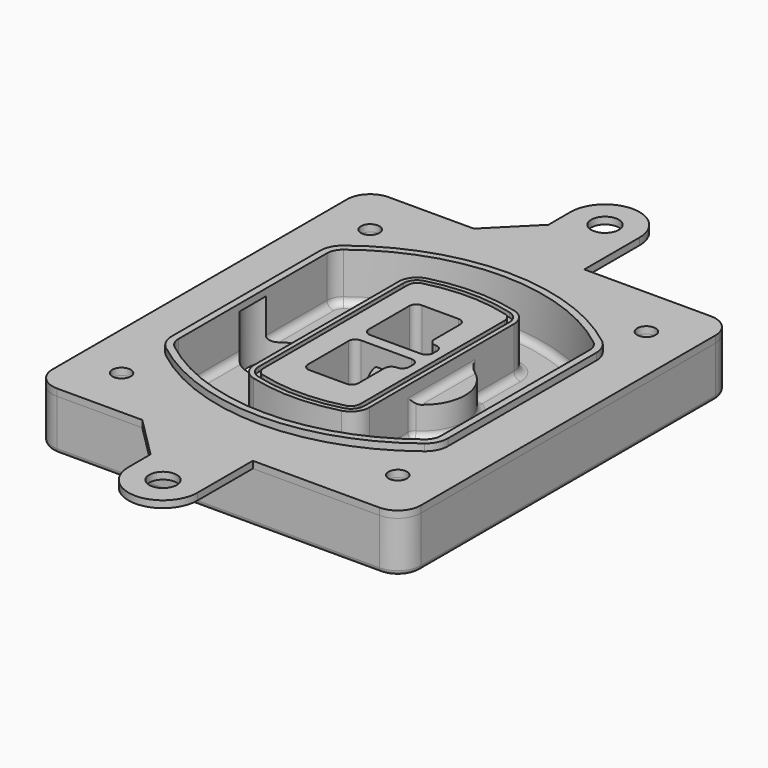
from build123d import *

# Parameters (mm, degrees)
F0_R      = 4
F1_DEPTH  = 25
F2_DEPTH  = 3
F3_DEPTH  = 18
F5_DEPTH  = 21
F6_DEPTH  = 2
F8_DEPTH  = 20
F9_DEPTH  = 16
F10_DEPTH = 25
F7_R      = 6
F7_R_2    = 4
F11_DEPTH = 6
F13_DEPTH = 9
F14_R     = 3
F15_R     = 2
F16_R     = 6
F16_R_2   = 4
F17_DEPTH = 3


with BuildPart() as f1:
    # F0 (on Top) → F1 (new body)
    with BuildSketch(Plane.XY):
        with BuildLine():
            ThreePointArc((-80, -80), (-77.0710678119, -87.0710678119), (-70, -90))
            Line((-70, -90), (70, -90))
            ThreePointArc((70, -90), (77.0710678119, -87.0710678119), (80, -80))
            Line((80, -80), (80, 80))
            ThreePointArc((80, 80), (77.0710678119, 87.0710678119), (70, 90))
            Line((70, 90), (-70, 90))
            ThreePointArc((-70, 90), (-77.0710678119, 87.0710678119), (-80, 80))
            Line((-80, 80), (-80, -80))
        make_face()
        with Locations((-60, -67.5)):
            Circle(F0_R, mode=Mode.SUBTRACT)
        with Locations((60, -67.5)):
            Circle(F0_R, mode=Mode.SUBTRACT)
        with Locations((-60, 67.5)):
            Circle(F0_R, mode=Mode.SUBTRACT)
        with BuildLine():
            ThreePointArc((-64, 40.2934422872), (-62.5820384798, 46.4328484224), (-58.6153846154, 51.3286200352))
            ThreePointArc((-58.6153846154, 51.3286200352), (0, 71.5), (58.6153846154, 51.3286200352))
            ThreePointArc((58.6153846154, 51.3286200352), (62.5820384798, 46.4328484224), (64, 40.2934422872))
            Line((64, 40.2934422872), (64, -40.2934422872))
            ThreePointArc((64, -40.2934422872), (62.5820384798, -46.4328484224), (58.6153846154, -51.3286200352))
            ThreePointArc((58.6153846154, -51.3286200352), (0, -71.5), (-58.6153846154, -51.3286200352))
            ThreePointArc((-58.6153846154, -51.3286200352), (-62.5820384798, -46.4328484224), (-64, -40.2934422872))
            Line((-64, -40.2934422872), (-64, 40.2934422872))
        make_face(mode=Mode.SUBTRACT)
        with Locations((60, 67.5)):
            Circle(F0_R, mode=Mode.SUBTRACT)
        with BuildLine():
            ThreePointArc((58.6153846154, 51.3286200352), (0, 71.5), (-58.6153846154, 51.3286200352))
            ThreePointArc((-58.6153846154, 51.3286200352), (-62.5820384798, 46.4328484224), (-64, 40.2934422872))
            Line((-64, 40.2934422872), (-64, -40.2934422872))
            ThreePointArc((-64, -40.2934422872), (-62.5820384798, -46.4328484224), (-58.6153846154, -51.3286200352))
            ThreePointArc((-58.6153846154, -51.3286200352), (0, -71.5), (58.6153846154, -51.3286200352))
            ThreePointArc((58.6153846154, -51.3286200352), (62.5820384798, -46.4328484224), (64, -40.2934422872))
            Line((64, -40.2934422872), (64, 40.2934422872))
            ThreePointArc((64, 40.2934422872), (62.5820384798, 46.4328484224), (58.6153846154, 51.3286200352))
        make_face()
        with BuildLine():
            Line((-60, -40.2934422872), (-60, 40.2934422872))
            ThreePointArc((-60, 40.2934422872), (-58.9871703427, 44.6787323838), (-56.1538461538, 48.1757121072))
            ThreePointArc((-56.1538461538, 48.1757121072), (0, 67.5), (56.1538461538, 48.1757121072))
            ThreePointArc((56.1538461538, 48.1757121072), (58.9871703427, 44.6787323838), (60, 40.2934422872))
            Line((60, 40.2934422872), (60, -40.2934422872))
            ThreePointArc((60, -40.2934422872), (58.9871703427, -44.6787323838), (56.1538461538, -48.1757121072))
            ThreePointArc((56.1538461538, -48.1757121072), (0, -67.5), (-56.1538461538, -48.1757121072))
            ThreePointArc((-56.1538461538, -48.1757121072), (-58.9871703427, -44.6787323838), (-60, -40.2934422872))
        make_face(mode=Mode.SUBTRACT)
        with BuildLine():
            ThreePointArc((-56.1538461538, 48.1757121072), (-58.9871703427, 44.6787323838), (-60, 40.2934422872))
            Line((-60, 40.2934422872), (-60, -40.2934422872))
            ThreePointArc((-60, -40.2934422872), (-58.9871703427, -44.6787323838), (-56.1538461538, -48.1757121072))
            ThreePointArc((-56.1538461538, -48.1757121072), (0, -67.5), (56.1538461538, -48.1757121072))
            ThreePointArc((56.1538461538, -48.1757121072), (58.9871703427, -44.6787323838), (60, -40.2934422872))
            Line((60, -40.2934422872), (60, 40.2934422872))
            ThreePointArc((60, 40.2934422872), (58.9871703427, 44.6787323838), (56.1538461538, 48.1757121072))
            ThreePointArc((56.1538461538, 48.1757121072), (0, 67.5), (-56.1538461538, 48.1757121072))
        make_face()
        with BuildLine():
            ThreePointArc((54.3076923077, 45.8110311612), (56.2910192399, 43.3631453548), (57, 40.2934422872))
            Line((57, 40.2934422872), (57, -40.2934422872))
            ThreePointArc((57, -40.2934422872), (56.2910192399, -43.3631453548), (54.3076923077, -45.8110311612))
            ThreePointArc((54.3076923077, -45.8110311612), (0, -64.5), (-54.3076923077, -45.8110311612))
            ThreePointArc((-54.3076923077, -45.8110311612), (-56.2910192399, -43.3631453548), (-57, -40.2934422872))
            Line((-57, -40.2934422872), (-57, 40.2934422872))
            ThreePointArc((-57, 40.2934422872), (-56.2910192399, 43.3631453548), (-54.3076923077, 45.8110311612))
            ThreePointArc((-54.3076923077, 45.8110311612), (0, 64.5), (54.3076923077, 45.8110311612))
        make_face(mode=Mode.SUBTRACT)
        with BuildLine():
            Line((57, -40.2934422872), (57, 40.2934422872))
            ThreePointArc((57, 40.2934422872), (56.2910192399, 43.3631453548), (54.3076923077, 45.8110311612))
            ThreePointArc((54.3076923077, 45.8110311612), (0, 64.5), (-54.3076923077, 45.8110311612))
            ThreePointArc((-54.3076923077, 45.8110311612), (-56.2910192399, 43.3631453548), (-57, 40.2934422872))
            Line((-57, 40.2934422872), (-57, -40.2934422872))
            ThreePointArc((-57, -40.2934422872), (-56.2910192399, -43.3631453548), (-54.3076923077, -45.8110311612))
            ThreePointArc((-54.3076923077, -45.8110311612), (0, -64.5), (54.3076923077, -45.8110311612))
            ThreePointArc((54.3076923077, -45.8110311612), (56.2910192399, -43.3631453548), (57, -40.2934422872))
        make_face()
    extrude(amount=-F1_DEPTH)

    # F0 (on Top) → F2 (join)
    with BuildSketch(Plane.XY):
        with BuildLine():
            ThreePointArc((-56.1538461538, 48.1757121072), (-58.9871703427, 44.6787323838), (-60, 40.2934422872))
            Line((-60, 40.2934422872), (-60, -40.2934422872))
            ThreePointArc((-60, -40.2934422872), (-58.9871703427, -44.6787323838), (-56.1538461538, -48.1757121072))
            ThreePointArc((-56.1538461538, -48.1757121072), (0, -67.5), (56.1538461538, -48.1757121072))
            ThreePointArc((56.1538461538, -48.1757121072), (58.9871703427, -44.6787323838), (60, -40.2934422872))
            Line((60, -40.2934422872), (60, 40.2934422872))
            ThreePointArc((60, 40.2934422872), (58.9871703427, 44.6787323838), (56.1538461538, 48.1757121072))
            ThreePointArc((56.1538461538, 48.1757121072), (0, 67.5), (-56.1538461538, 48.1757121072))
        make_face()
        with BuildLine():
            ThreePointArc((54.3076923077, 45.8110311612), (56.2910192399, 43.3631453548), (57, 40.2934422872))
            Line((57, 40.2934422872), (57, -40.2934422872))
            ThreePointArc((57, -40.2934422872), (56.2910192399, -43.3631453548), (54.3076923077, -45.8110311612))
            ThreePointArc((54.3076923077, -45.8110311612), (0, -64.5), (-54.3076923077, -45.8110311612))
            ThreePointArc((-54.3076923077, -45.8110311612), (-56.2910192399, -43.3631453548), (-57, -40.2934422872))
            Line((-57, -40.2934422872), (-57, 40.2934422872))
            ThreePointArc((-57, 40.2934422872), (-56.2910192399, 43.3631453548), (-54.3076923077, 45.8110311612))
            ThreePointArc((-54.3076923077, 45.8110311612), (0, 64.5), (54.3076923077, 45.8110311612))
        make_face(mode=Mode.SUBTRACT)
    extrude(amount=F2_DEPTH)

    # F0 (on Top) → F3 (cut)
    with BuildSketch(Plane.XY):
        with BuildLine():
            Line((57, -40.2934422872), (57, 40.2934422872))
            ThreePointArc((57, 40.2934422872), (56.2910192399, 43.3631453548), (54.3076923077, 45.8110311612))
            ThreePointArc((54.3076923077, 45.8110311612), (0, 64.5), (-54.3076923077, 45.8110311612))
            ThreePointArc((-54.3076923077, 45.8110311612), (-56.2910192399, 43.3631453548), (-57, 40.2934422872))
            Line((-57, 40.2934422872), (-57, -40.2934422872))
            ThreePointArc((-57, -40.2934422872), (-56.2910192399, -43.3631453548), (-54.3076923077, -45.8110311612))
            ThreePointArc((-54.3076923077, -45.8110311612), (0, -64.5), (54.3076923077, -45.8110311612))
            ThreePointArc((54.3076923077, -45.8110311612), (56.2910192399, -43.3631453548), (57, -40.2934422872))
        make_face()
    extrude(amount=-F3_DEPTH, mode=Mode.SUBTRACT)

    # F4 (on face) → F5 (join, through all)
    with BuildSketch(Plane.XY.offset(3)):
        with BuildLine():
            ThreePointArc((-25, -39.2465276821), (-23.3511545998, -44.1109737193), (-19.0842911877, -46.9702398883))
            ThreePointArc((-19.0842911877, -46.9702398883), (0, -49.5), (19.0842911877, -46.9702398883))
            ThreePointArc((19.0842911877, -46.9702398883), (23.3511545998, -44.1109737193), (25, -39.2465276821))
            Line((25, -39.2465276821), (25, 39.2465276821))
            ThreePointArc((25, 39.2465276821), (23.3511545998, 44.1109737193), (19.0842911877, 46.9702398883))
            ThreePointArc((19.0842911877, 46.9702398883), (0, 49.5), (-19.0842911877, 46.9702398883))
            ThreePointArc((-19.0842911877, 46.9702398883), (-23.3511545998, 44.1109737193), (-25, 39.2465276821))
            Line((-25, 39.2465276821), (-25, -39.2465276821))
        make_face()
        with BuildLine():
            ThreePointArc((18.5632183908, 45.0393118368), (21.7633659499, 42.89486221), (23, 39.2465276821))
            Line((23, 39.2465276821), (23, -39.2465276821))
            ThreePointArc((23, -39.2465276821), (21.7633659499, -42.89486221), (18.5632183908, -45.0393118368))
            ThreePointArc((18.5632183908, -45.0393118368), (0, -47.5), (-18.5632183908, -45.0393118368))
            ThreePointArc((-18.5632183908, -45.0393118368), (-21.7633659499, -42.89486221), (-23, -39.2465276821))
            Line((-23, -39.2465276821), (-23, 39.2465276821))
            ThreePointArc((-23, 39.2465276821), (-21.7633659499, 42.89486221), (-18.5632183908, 45.0393118368))
            ThreePointArc((-18.5632183908, 45.0393118368), (0, 47.5), (18.5632183908, 45.0393118368))
        make_face(mode=Mode.SUBTRACT)
        with BuildLine():
            Line((23, -39.2465276821), (23, 39.2465276821))
            ThreePointArc((23, 39.2465276821), (21.7633659499, 42.89486221), (18.5632183908, 45.0393118368))
            ThreePointArc((18.5632183908, 45.0393118368), (0, 47.5), (-18.5632183908, 45.0393118368))
            ThreePointArc((-18.5632183908, 45.0393118368), (-21.7633659499, 42.89486221), (-23, 39.2465276821))
            Line((-23, 39.2465276821), (-23, -39.2465276821))
            ThreePointArc((-23, -39.2465276821), (-21.7633659499, -42.89486221), (-18.5632183908, -45.0393118368))
            ThreePointArc((-18.5632183908, -45.0393118368), (0, -47.5), (18.5632183908, -45.0393118368))
            ThreePointArc((18.5632183908, -45.0393118368), (21.7633659499, -42.89486221), (23, -39.2465276821))
        make_face()
        with BuildLine():
            ThreePointArc((18.0421455939, 43.1083837852), (20.1755772999, 41.6787507007), (21, 39.2465276821))
            Line((21, 39.2465276821), (21, -39.2465276821))
            ThreePointArc((21, -39.2465276821), (20.1755772999, -41.6787507007), (18.0421455939, -43.1083837852))
            ThreePointArc((18.0421455939, -43.1083837852), (0, -45.5), (-18.0421455939, -43.1083837852))
            ThreePointArc((-18.0421455939, -43.1083837852), (-20.1755772999, -41.6787507007), (-21, -39.2465276821))
            Line((-21, -39.2465276821), (-21, 39.2465276821))
            ThreePointArc((-21, 39.2465276821), (-20.1755772999, 41.6787507007), (-18.0421455939, 43.1083837852))
            ThreePointArc((-18.0421455939, 43.1083837852), (0, 45.5), (18.0421455939, 43.1083837852))
        make_face(mode=Mode.SUBTRACT)
        with BuildLine():
            Line((21, -39.2465276821), (21, 39.2465276821))
            ThreePointArc((21, 39.2465276821), (20.1755772999, 41.6787507007), (18.0421455939, 43.1083837852))
            ThreePointArc((18.0421455939, 43.1083837852), (0, 45.5), (-18.0421455939, 43.1083837852))
            ThreePointArc((-18.0421455939, 43.1083837852), (-20.1755772999, 41.6787507007), (-21, 39.2465276821))
            Line((-21, 39.2465276821), (-21, -39.2465276821))
            ThreePointArc((-21, -39.2465276821), (-20.1755772999, -41.6787507007), (-18.0421455939, -43.1083837852))
            ThreePointArc((-18.0421455939, -43.1083837852), (0, -45.5), (18.0421455939, -43.1083837852))
            ThreePointArc((18.0421455939, -43.1083837852), (20.1755772999, -41.6787507007), (21, -39.2465276821))
        make_face()
        with BuildLine():
            Line((-8, -2.5), (14, -2.5))
            ThreePointArc((14, -2.5), (16.1213203436, -3.3786796564), (17, -5.5))
            Line((17, -5.5), (17, -7.5))
            ThreePointArc((17, -7.5), (16.1213203436, -9.6213203436), (14, -10.5))
            ThreePointArc((14, -10.5), (11.8786796564, -11.3786796564), (11, -13.5))
            Line((11, -13.5), (11, -27.5))
            ThreePointArc((11, -27.5), (10.1213203436, -29.6213203436), (8, -30.5))
            Line((8, -30.5), (-8, -30.5))
            ThreePointArc((-8, -30.5), (-10.1213203436, -29.6213203436), (-11, -27.5))
            Line((-11, -27.5), (-11, -5.5))
            ThreePointArc((-11, -5.5), (-10.1213203436, -3.3786796564), (-8, -2.5))
        make_face(mode=Mode.SUBTRACT)
        with BuildLine():
            ThreePointArc((-8, 2.5), (-10.1213203436, 3.3786796564), (-11, 5.5))
            Line((-11, 5.5), (-11, 27.5))
            ThreePointArc((-11, 27.5), (-10.1213203436, 29.6213203436), (-8, 30.5))
            Line((-8, 30.5), (8, 30.5))
            ThreePointArc((8, 30.5), (10.1213203436, 29.6213203436), (11, 27.5))
            Line((11, 27.5), (11, 13.5))
            ThreePointArc((11, 13.5), (11.8786796564, 11.3786796564), (14, 10.5))
            ThreePointArc((14, 10.5), (16.1213203436, 9.6213203436), (17, 7.5))
            Line((17, 7.5), (17, 5.5))
            ThreePointArc((17, 5.5), (16.1213203436, 3.3786796564), (14, 2.5))
            Line((14, 2.5), (-8, 2.5))
        make_face(mode=Mode.SUBTRACT)
    extrude(amount=-F5_DEPTH)

    # F4 (on face) → F6 (cut)
    with BuildSketch(Plane.XY.offset(3)):
        with BuildLine():
            Line((23, -39.2465276821), (23, 39.2465276821))
            ThreePointArc((23, 39.2465276821), (21.7633659499, 42.89486221), (18.5632183908, 45.0393118368))
            ThreePointArc((18.5632183908, 45.0393118368), (0, 47.5), (-18.5632183908, 45.0393118368))
            ThreePointArc((-18.5632183908, 45.0393118368), (-21.7633659499, 42.89486221), (-23, 39.2465276821))
            Line((-23, 39.2465276821), (-23, -39.2465276821))
            ThreePointArc((-23, -39.2465276821), (-21.7633659499, -42.89486221), (-18.5632183908, -45.0393118368))
            ThreePointArc((-18.5632183908, -45.0393118368), (0, -47.5), (18.5632183908, -45.0393118368))
            ThreePointArc((18.5632183908, -45.0393118368), (21.7633659499, -42.89486221), (23, -39.2465276821))
        make_face()
        with BuildLine():
            ThreePointArc((18.0421455939, 43.1083837852), (20.1755772999, 41.6787507007), (21, 39.2465276821))
            Line((21, 39.2465276821), (21, -39.2465276821))
            ThreePointArc((21, -39.2465276821), (20.1755772999, -41.6787507007), (18.0421455939, -43.1083837852))
            ThreePointArc((18.0421455939, -43.1083837852), (0, -45.5), (-18.0421455939, -43.1083837852))
            ThreePointArc((-18.0421455939, -43.1083837852), (-20.1755772999, -41.6787507007), (-21, -39.2465276821))
            Line((-21, -39.2465276821), (-21, 39.2465276821))
            ThreePointArc((-21, 39.2465276821), (-20.1755772999, 41.6787507007), (-18.0421455939, 43.1083837852))
            ThreePointArc((-18.0421455939, 43.1083837852), (0, 45.5), (18.0421455939, 43.1083837852))
        make_face(mode=Mode.SUBTRACT)
    extrude(amount=-F6_DEPTH, mode=Mode.SUBTRACT)

    # F7 (on face) → F8 (join)
    with BuildSketch(Plane(origin=(0, 0, -25), x_dir=(1, 0, 0), z_dir=(0, 0, -1))):
        with BuildLine():
            ThreePointArc((3.28842436, 0), (16.7567035675, 13.4682792075), (30.224982775, 0))
            Line((30.224982775, 0), (35.224982775, 0))
            ThreePointArc((35.224982775, 0), (16.7567035675, 18.4682792075), (-1.71157564, 0))
            Line((-1.71157564, 0), (3.28842436, 0))
        make_face()
        with BuildLine():
            Line((3.28842436, 0), (30.224982775, 0))
            ThreePointArc((30.224982775, 0), (16.7567035675, 13.4682792075), (3.28842436, 0))
        make_face()
        with BuildLine():
            ThreePointArc((3.28842436, 0), (16.7567035675, -13.4682792075), (30.224982775, 0))
            Line((30.224982775, 0), (3.28842436, 0))
        make_face()
        with BuildLine():
            Line((35.224982775, 0), (30.224982775, 0))
            ThreePointArc((30.224982775, 0), (16.7567035675, -13.4682792075), (3.28842436, 0))
            Line((3.28842436, 0), (-1.71157564, 0))
            ThreePointArc((-1.71157564, 0), (16.7567035675, -18.4682792075), (35.224982775, 0))
        make_face()
    extrude(amount=-F8_DEPTH)

    # F7 (on face) → F9 (cut)
    with BuildSketch(Plane(origin=(0, 0, -25), x_dir=(1, 0, 0), z_dir=(0, 0, -1))):
        with BuildLine():
            Line((3.28842436, 0), (30.224982775, 0))
            ThreePointArc((30.224982775, 0), (16.7567035675, 13.4682792075), (3.28842436, 0))
        make_face()
        with BuildLine():
            ThreePointArc((3.28842436, 0), (16.7567035675, -13.4682792075), (30.224982775, 0))
            Line((30.224982775, 0), (3.28842436, 0))
        make_face()
    extrude(amount=-F9_DEPTH, mode=Mode.SUBTRACT)

    # F7 (on face) → F10 (cut)
    with BuildSketch(Plane(origin=(0, 0, -25), x_dir=(1, 0, 0), z_dir=(0, 0, -1))):
        with BuildLine():
            Line((-59.0318229325, 0), (-32.0952645175, 0))
            ThreePointArc((-32.0952645175, 0), (-45.563543725, 13.4682792075), (-59.0318229325, 0))
        make_face()
        with BuildLine():
            ThreePointArc((-59.0318229325, 0), (-45.563543725, -13.4682792075), (-32.0952645175, 0))
            Line((-32.0952645175, 0), (-59.0318229325, 0))
        make_face()
    extrude(amount=-F10_DEPTH, mode=Mode.SUBTRACT)

    # F7 (on face) → F11 (cut)
    with BuildSketch(Plane(origin=(0, 0, -25), x_dir=(1, 0, 0), z_dir=(0, 0, -1))):
        with Locations((60, -67.5)):
            Circle(F7_R)
        with Locations((60, -67.5)):
            Circle(F7_R_2, mode=Mode.SUBTRACT)
        with Locations((60, -67.5)):
            Circle(F7_R)
        with Locations((60, -67.5)):
            Circle(F7_R_2, mode=Mode.SUBTRACT)
        with Locations((-60, -67.5)):
            Circle(F7_R)
        with Locations((-60, -67.5)):
            Circle(F7_R_2, mode=Mode.SUBTRACT)
        with Locations((-60, -67.5)):
            Circle(F7_R)
        with Locations((-60, -67.5)):
            Circle(F7_R_2, mode=Mode.SUBTRACT)
        with Locations((-60, 67.5)):
            Circle(F7_R)
        with Locations((-60, 67.5)):
            Circle(F7_R_2, mode=Mode.SUBTRACT)
        with Locations((-60, 67.5)):
            Circle(F7_R)
        with Locations((-60, 67.5)):
            Circle(F7_R_2, mode=Mode.SUBTRACT)
        with Locations((60, 67.5)):
            Circle(F7_R)
        with Locations((60, 67.5)):
            Circle(F7_R_2, mode=Mode.SUBTRACT)
        with Locations((60, 67.5)):
            Circle(F7_R)
        with Locations((60, 67.5)):
            Circle(F7_R_2, mode=Mode.SUBTRACT)
    extrude(amount=-F11_DEPTH, mode=Mode.SUBTRACT)

    # F12 (on face) → F13 (cut, through all)
    with BuildSketch(Plane(origin=(0, 0, -9), x_dir=(1, 0, 0), z_dir=(0, 0, -1))):
        with BuildLine():
            Line((11, 13.5), (11, 17.5481537753))
            ThreePointArc((11, 17.5481537753), (2.5696536419, 11.8239143813), (-1.5415842455, 2.5))
            Line((-1.5415842455, 2.5), (3.5224848595, 2.5))
            ThreePointArc((3.5224848595, 2.5), (6.1857188154, 8.3455872281), (11.2536447004, 12.2927168648))
            ThreePointArc((11.2536447004, 12.2927168648), (11.0640958889, 12.8831798879), (11, 13.5))
        make_face()
        with BuildLine():
            ThreePointArc((11.2536447004, -12.2927168648), (6.1857188154, -8.3455872281), (3.5224848595, -2.5))
            Line((3.5224848595, -2.5), (-1.5415842455, -2.5))
            ThreePointArc((-1.5415842455, -2.5), (2.5696536419, -11.8239143813), (11, -17.5481537753))
            Line((11, -17.5481537753), (11, -13.5))
            ThreePointArc((11, -13.5), (11.0640958889, -12.8831798879), (11.2536447004, -12.2927168648))
        make_face()
        with BuildLine():
            ThreePointArc((11.2536447004, 12.2927168648), (6.1857188154, 8.3455872281), (3.5224848595, 2.5))
            Line((3.5224848595, 2.5), (14, 2.5))
            ThreePointArc((14, 2.5), (16.1213203436, 3.3786796564), (17, 5.5))
            Line((17, 5.5), (17, 7.5))
            ThreePointArc((17, 7.5), (16.1213203436, 9.6213203436), (14, 10.5))
            ThreePointArc((14, 10.5), (12.3601599782, 10.9878446101), (11.2536447004, 12.2927168648))
        make_face()
        with BuildLine():
            Line((14, -2.5), (3.5224848595, -2.5))
            ThreePointArc((3.5224848595, -2.5), (6.1857188154, -8.3455872281), (11.2536447004, -12.2927168648))
            ThreePointArc((11.2536447004, -12.2927168648), (12.3601599782, -10.9878446101), (14, -10.5))
            ThreePointArc((14, -10.5), (16.1213203436, -9.6213203436), (17, -7.5))
            Line((17, -7.5), (17, -5.5))
            ThreePointArc((17, -5.5), (16.1213203436, -3.3786796564), (14, -2.5))
        make_face()
    extrude(amount=F13_DEPTH, mode=Mode.SUBTRACT)

    # F14
    f14_edges = [f1.edges().sort_by_distance(p)[0] for p in [
        (-57, -23.703476, -18),
        (-57, 23.703476, -18),
        (25, 0, -5),
        (25, 16.526506, -11.5),
        (25, -16.526506, -11.5),
        (25, -27.886517, -18),
        (35.224983, 0, -18),
    ]]
    fillet(f14_edges, radius=F14_R)

    # F15
    f15_edges = [f1.edges().sort_by_distance(p)[0] for p in [
        (0, -90, -25),
    ]]
    fillet(f15_edges, radius=F15_R)


with BuildPart() as f17:
    # F16 (on face) → F17 (new body)
    with BuildSketch(Plane.XY):
        with BuildLine():
            Line((-15, 108), (-33, 90))
            Line((-33, 90), (15, 90))
            Line((15, 90), (15, 120))
            ThreePointArc((15, 120), (0, 135), (-15, 120))
            Line((-15, 120), (-15, 108))
        make_face()
        with Locations((0, 120)):
            Circle(F16_R, mode=Mode.SUBTRACT)
        with BuildLine():
            ThreePointArc((-15, -120), (0, -135), (15, -120))
            Line((15, -120), (15, -90))
            Line((15, -90), (-33, -90))
            Line((-33, -90), (-15, -108))
            Line((-15, -108), (-15, -120))
        make_face()
        with Locations((0, -120)):
            Circle(F16_R, mode=Mode.SUBTRACT)
        with BuildLine():
            Line((15, 90), (-33, 90))
            Line((-33, 90), (-70, 90))
            ThreePointArc((-70, 90), (-77.0710678119, 87.0710678119), (-80, 80))
            Line((-80, 80), (-80, -80))
            ThreePointArc((-80, -80), (-77.0710678119, -87.0710678119), (-70, -90))
            Line((-70, -90), (-33, -90))
            Line((-33, -90), (15, -90))
            Line((15, -90), (70, -90))
            ThreePointArc((70, -90), (77.0710678119, -87.0710678119), (80, -80))
            Line((80, -80), (80, 80))
            ThreePointArc((80, 80), (77.0710678119, 87.0710678119), (70, 90))
            Line((70, 90), (15, 90))
        make_face()
        with Locations((-60, -67.5)):
            Circle(F16_R_2, mode=Mode.SUBTRACT)
        with Locations((60, -67.5)):
            Circle(F16_R_2, mode=Mode.SUBTRACT)
        with Locations((-60, 67.5)):
            Circle(F16_R_2, mode=Mode.SUBTRACT)
        with BuildLine():
            ThreePointArc((-60, 40.2934422872), (-58.9871703427, 44.6787323838), (-56.1538461538, 48.1757121072))
            ThreePointArc((-56.1538461538, 48.1757121072), (0, 67.5), (56.1538461538, 48.1757121072))
            ThreePointArc((56.1538461538, 48.1757121072), (58.9871703427, 44.6787323838), (60, 40.2934422872))
            Line((60, 40.2934422872), (60, -40.2934422872))
            ThreePointArc((60, -40.2934422872), (58.9871703427, -44.6787323838), (56.1538461538, -48.1757121072))
            ThreePointArc((56.1538461538, -48.1757121072), (0, -67.5), (-56.1538461538, -48.1757121072))
            ThreePointArc((-56.1538461538, -48.1757121072), (-58.9871703427, -44.6787323838), (-60, -40.2934422872))
            Line((-60, -40.2934422872), (-60, 40.2934422872))
        make_face(mode=Mode.SUBTRACT)
        with Locations((60, 67.5)):
            Circle(F16_R_2, mode=Mode.SUBTRACT)
    extrude(amount=-F17_DEPTH)


solid = Compound([f1.part, f17.part])
